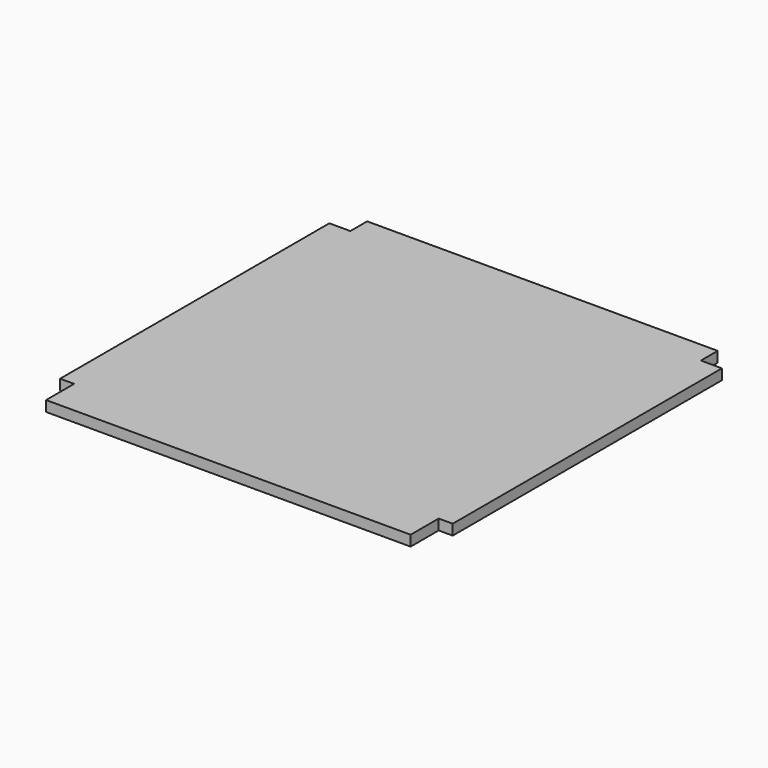
from build123d import *

# Parameters (mm, degrees)
F1_DEPTH = 19.05


with BuildPart() as f1:
    # F0 (on Top) → F1 (new body)
    with BuildSketch(Plane.XY):
        Polygon((24.332778, 70.785321), (24.332778, 7.285321), (684.732778, 7.285321), (684.732778, 70.785321), (710.132778, 70.785321), (710.132778, 680.385321), (672.032778, 680.385321), (672.032778, 718.485321), (37.032778, 718.485321), (37.032778, 680.385321), (-1.067222, 680.385321), (-1.067222, 70.785321), align=None)
    extrude(amount=-F1_DEPTH)


solid = f1.part
